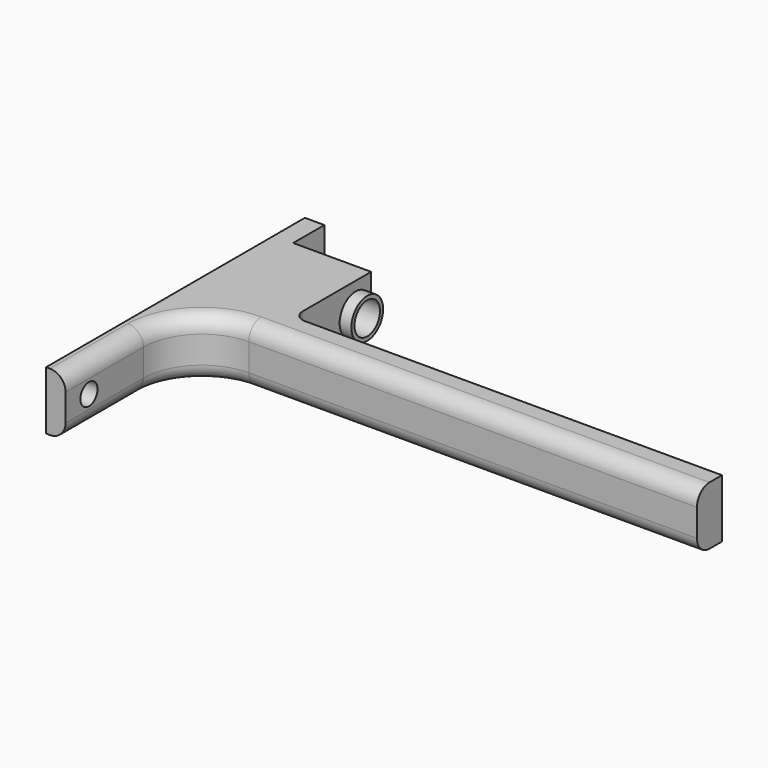
from build123d import *

# Parameters (mm, degrees)
PAD_DEPTH       = 15
FILLET_R        = 3
FILLET001_R     = 15
SKETCH001_R     = 2.75
POCKET_DEPTH    = 5.001
SKETCH002_R     = 5.1
PAD001_DEPTH    = 3
SKETCH003_R     = 4.1
POCKET001_DEPTH = 28.001
FILLET002_R     = 4


with BuildPart() as part:
    # Sketch → Pad (new body)
    with BuildSketch(Plane.XY):
        Polygon((0, 0), (0, 83), (5, 83), (5, 73), (25, 73), (25, 48), (135, 48), (135, 40), (5, 40), (5, 0), align=None)
    extrude(amount=PAD_DEPTH)

    # Fillet
    fillet_edges = [part.edges().sort_by_distance(p)[0] for p in [
        (25, 48, 7.5),
    ]]
    fillet(fillet_edges, radius=FILLET_R)

    # Fillet001
    fillet001_edges = [part.edges().sort_by_distance(p)[0] for p in [
        (5, 40, 7.5),
    ]]
    fillet(fillet001_edges, radius=FILLET001_R)

    # Sketch001 → Pocket (cut, through all)
    with BuildSketch(Plane.YZ.offset(5)):
        with Locations((7.5, 7.5)):
            Circle(SKETCH001_R)
        with Locations((78, 7.5)):
            Circle(SKETCH001_R)
    extrude(amount=-POCKET_DEPTH, mode=Mode.SUBTRACT)

    # Sketch002 → Pad001 (new body)
    with BuildSketch(Plane.YZ.offset(25)):
        with Locations((68, 7.5)):
            Circle(SKETCH002_R)
    extrude(amount=PAD001_DEPTH)

    # Sketch003 → Pocket001 (cut, through all)
    with BuildSketch(Plane.YZ.offset(28)):
        with Locations((68, 7.5)):
            Circle(SKETCH003_R)
    extrude(amount=-POCKET001_DEPTH, mode=Mode.SUBTRACT)

    # Fillet002
    fillet002_edges = [part.edges().sort_by_distance(p)[0] for p in [
        (77.5, 40, 15),
        (77.5, 40, 0),
    ]]
    fillet(fillet002_edges, radius=FILLET002_R)


solid = part.part
